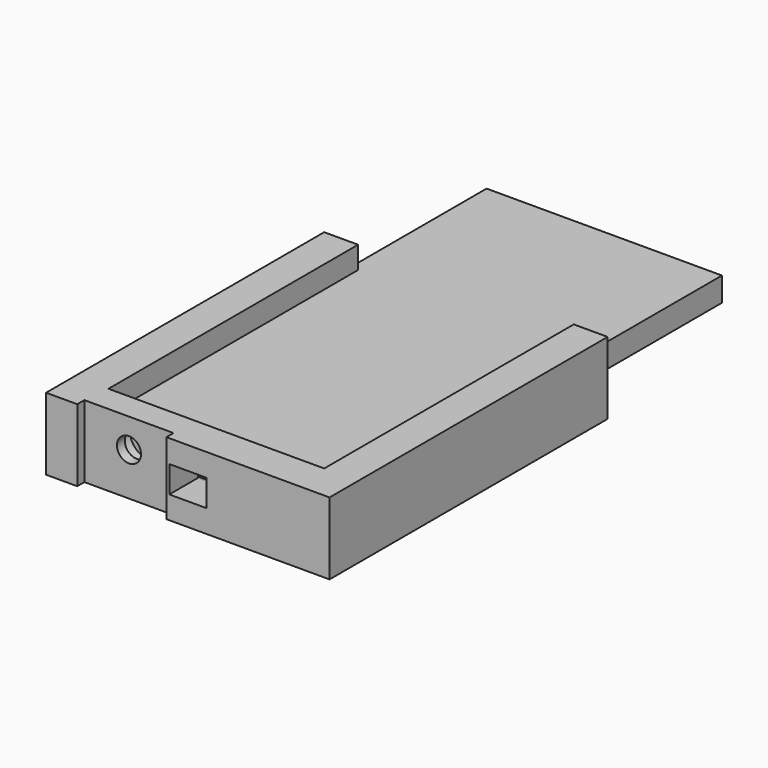
from build123d import *

# Parameters (mm, degrees)
F0_W          = 67.056
F0_H          = 6.858
F1_DEPTH      = 138.176
F3_DEPTH      = 88.9
F4_W          = 10.16
F4_H          = 20.574
F5_DEPTH      = 73.914
F5_DEPTH_BACK = 6.858
F6_W          = 10.541
F6_H          = 7.62
F7_DEPTH      = 148.337
F8_R          = 3.429
F9_DEPTH      = 10.161
F10_DEPTH     = 4.826
F11_W         = 25.4
F11_H         = 20.574
F11_R         = 3.429
F12_DEPTH     = 2.54


with BuildPart() as f1:
    # F0 (on Front) → F1 (new body)
    with BuildSketch(Plane.XZ):
        with Locations((33.528, -3.429)):
            Rectangle(F0_W, F0_H)
    extrude(amount=-F1_DEPTH)


with BuildPart() as f3:
    # F2 (on face) → F3 (new body)
    with BuildSketch(Plane.XZ):
        Polygon((-0.508, -7.366), (-0.508, 0), (-0.508, 0.508), (2.794, 0.508), (2.794, 6.858), (-6.858, 6.858), (-6.858, -13.716), (73.914, -13.716), (73.914, 6.858), (64.262, 6.858), (64.262, 0.508), (67.564, 0.508), (67.564, 0), (67.564, -7.366), align=None)
    extrude(amount=-F3_DEPTH)

    # F4 (on Right) → F5 (join, two sides)
    with BuildSketch(Plane.YZ) as f5_sk:
        with Locations((-5.08, -3.429)):
            Rectangle(F4_W, F4_H)
    extrude(amount=F5_DEPTH)
    extrude(f5_sk.sketch, amount=-F5_DEPTH_BACK)

    # F6 (on face) → F7 (cut, through all)
    with BuildSketch(Plane.XZ.offset(10.16)):
        with Locations((33.5280000003, -3.429)):
            Rectangle(F6_W, F6_H)
    extrude(amount=-F7_DEPTH, mode=Mode.SUBTRACT)

    # F8 (on face) → F9 (cut, through all)
    with BuildSketch(Plane(origin=(0, 0, 0), x_dir=(-1, 0, 0), z_dir=(0, 1, 0))):
        with Locations((-14.732, -1.4605)):
            Circle(F8_R)
    extrude(amount=-F9_DEPTH, mode=Mode.SUBTRACT)

    # F8 (on face) → F10 (cut)
    with BuildSketch(Plane(origin=(0, 0, 0), x_dir=(-1, 0, 0), z_dir=(0, 1, 0))):
        with BuildLine():
            ThreePointArc((-14.732000012, -7.366), (-10.5561809079, -5.6363191005), (-8.8265, -1.4605))
            ThreePointArc((-8.8265, -1.4605), (-18.9078190921, 2.7153191005), (-14.732000012, -7.366))
        make_face()
        with Locations((-14.732, -1.4605)):
            Circle(F8_R, mode=Mode.SUBTRACT)
    extrude(amount=-F10_DEPTH, mode=Mode.SUBTRACT)

    # F11 (on face) → F12 (cut)
    with BuildSketch(Plane.XZ.offset(10.16)):
        with Locations((14.732, -3.429)):
            Rectangle(F11_W, F11_H)
        with Locations((14.732, -1.4605)):
            Circle(F11_R, mode=Mode.SUBTRACT)
    extrude(amount=-F12_DEPTH, mode=Mode.SUBTRACT)


solid = Compound([f1.part, f3.part])
